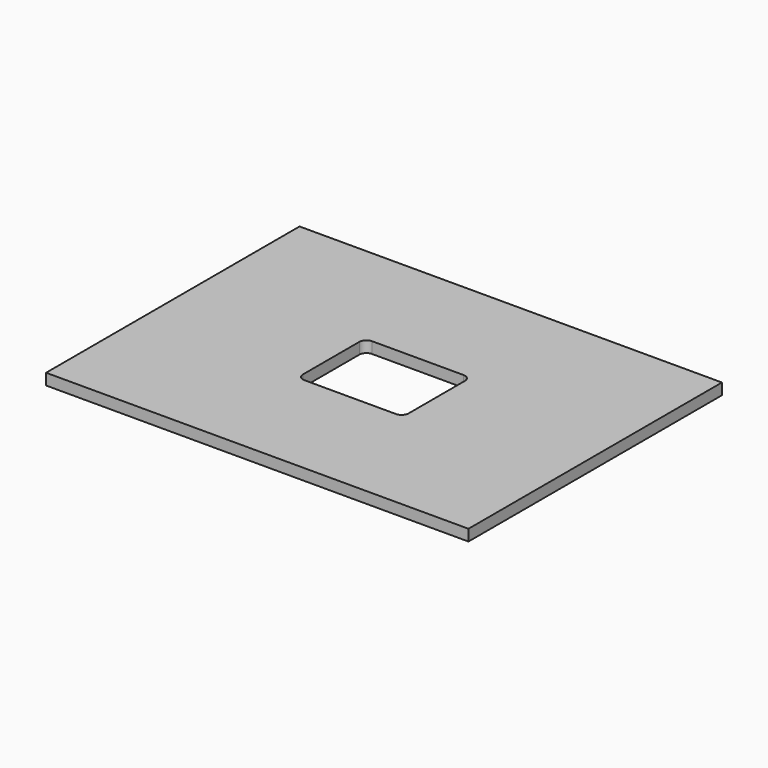
from build123d import *

# Parameters (mm, degrees)
F0_W     = 600
F0_H     = 450
F1_DEPTH = 16
F2_W     = 150
F2_H     = 120
F3_DEPTH = 16.001
F4_R     = 10


with BuildPart() as f1:
    # F0 (on Top) → F1 (new body)
    with BuildSketch(Plane.XY):
        Rectangle(F0_W, F0_H)
    extrude(amount=F1_DEPTH)

    # F2 (on face) → F3 (cut, through all)
    with BuildSketch(Plane.XY.offset(16)):
        Rectangle(F2_W, F2_H)
    extrude(amount=-F3_DEPTH, mode=Mode.SUBTRACT)

    # F4
    f4_edges = [f1.edges().sort_by_distance(p)[0] for p in [
        (-75, 60, 8),
        (75, 60, 8),
        (75, -60, 8),
        (-75, -60, 8),
    ]]
    fillet(f4_edges, radius=F4_R)


solid = f1.part
